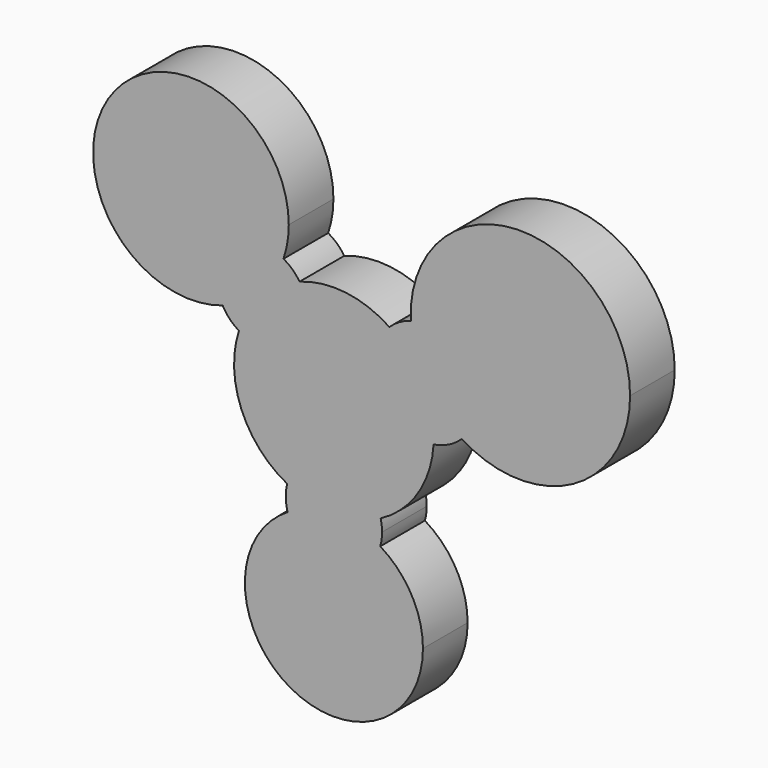
from build123d import *

# Parameters (mm, degrees)
F0_R     = 11.2833128168
F0_R_2   = 10.6488130987
F0_R_3   = 7.8884517035
F1_DEPTH = 12.192


with BuildPart() as f1:
    # F0 (on Front) → F1 (new body)
    with BuildSketch(Plane.XZ):
        with BuildLine():
            ThreePointArc((64.6868256307, 22.0171418041), (40.1449761113, 45.972446089), (16.7902312728, 20.8584086847))
            ThreePointArc((16.7902312728, 20.8584086847), (26.8358189915, 19.0661999212), (31.4093265462, 9.9443101218))
            ThreePointArc((31.4093265462, 9.9443101218), (30.5041655093, 5.4958673793), (27.9326293781, 1.754856652))
            ThreePointArc((27.9326293781, 1.7548566521), (52.2932061526, 1.0324381979), (64.6868256307, 22.0171418041))
        make_face()
        with Locations((40.7245121896, 22.0171418041)):
            Circle(F0_R, mode=Mode.SUBTRACT)
        with BuildLine():
            ThreePointArc((-24.308387046, 10.4348676669), (-22.6363387801, 22.0599619939), (-11.011095527, 23.7309745073))
            ThreePointArc((-11.011095527, 23.7309745073), (-10.1492949348, 27.1435552972), (-9.8594061629, 30.6513141841))
            ThreePointArc((-9.8594061629, 30.6513141841), (-48.6108677185, 43.0758640586), (-24.308387046, 10.4348676669))
        make_face()
        with Locations((-31.2269255519, 30.6513141841)):
            Circle(F0_R_2, mode=Mode.SUBTRACT)
        with BuildLine():
            ThreePointArc((10.1185107772, -24.6914563469), (0, -32.330583777), (-10.1185107772, -24.6914563469))
            ThreePointArc((-10.1185107772, -24.6914563469), (-9.5248492378, -58.2562348148), (19.4481945814, -41.3001291454))
            ThreePointArc((19.4481945814, -41.3001291454), (16.9561056694, -31.7752799076), (10.1185107772, -24.6914563469))
        make_face()
        with Locations((0, -41.3001291454)):
            Circle(F0_R_3, mode=Mode.SUBTRACT)
        with BuildLine():
            ThreePointArc((21.7706513012, -1.3047494562), (9.830025267, 4.8813588587), (12.1182372643, 18.1331727733))
            ThreePointArc((12.1182372643, 18.1331727733), (2.5912950244, 21.6552261433), (-7.4976775725, 20.4804409191))
            ThreePointArc((-7.4976775725, 20.4804409191), (-6.3141445246, 17.9210524787), (-5.9084352697, 15.1306009623))
            ThreePointArc((-5.9084352697, 15.1306009623), (-10.8782191013, 6.6041327124), (-20.7465769258, 6.7263047123))
            ThreePointArc((-20.7465769258, 6.7263047123), (-20.2128863485, -8.1916332123), (-10.2102536974, -19.2721132379))
            ThreePointArc((-10.2102536974, -19.2721132379), (0, -11.2888444275), (10.2102536974, -19.2721132379))
            ThreePointArc((10.2102536974, -19.2721132379), (18.3412407282, -11.8009541043), (21.7706513012, -1.3047494562))
        make_face()
        with Locations((40.7245121896, 22.0171418041)):
            Circle(F0_R)
        with Locations((-31.2269255519, 30.6513141841)):
            Circle(F0_R_2)
        with Locations((0, -41.3001291454)):
            Circle(F0_R_3)
        with BuildLine():
            ThreePointArc((31.4093265462, 9.9443101218), (26.8358189915, 19.0661999212), (16.7902312728, 20.8584086847))
            ThreePointArc((16.7902312728, 20.8584086847), (20.0257392642, 9.9443101218), (27.9326293781, 1.7548566521))
            ThreePointArc((27.9326293781, 1.754856652), (30.5041655093, 5.4958673793), (31.4093265462, 9.9443101218))
        make_face()
        with BuildLine():
            ThreePointArc((21.7706513012, -1.3047494562), (21.7999462146, -0.6526670372), (21.8097141022, 0))
            ThreePointArc((21.8097141022, 0), (19.2348501343, 10.2802806154), (12.1182372643, 18.1331727733))
            ThreePointArc((12.1182372643, 18.1331727733), (9.830025267, 4.8813588587), (21.7706513012, -1.3047494562))
        make_face()
        with BuildLine():
            ThreePointArc((-10.2102536974, -19.2721132379), (0, -21.8097141022), (10.2102536974, -19.2721132379))
            ThreePointArc((10.2102536974, -19.2721132379), (0, -11.2888444275), (-10.2102536974, -19.2721132379))
        make_face()
        with BuildLine():
            ThreePointArc((10.1185107772, -24.6914563469), (0, -21.851934564), (-10.1185107772, -24.6914563469))
            ThreePointArc((-10.1185107772, -24.6914563469), (0, -32.330583777), (10.1185107772, -24.6914563469))
        make_face()
        with BuildLine():
            ThreePointArc((-5.9084352697, 15.1306009623), (-6.3141445246, 17.9210524787), (-7.4976775725, 20.4804409191))
            ThreePointArc((-7.4976775725, 20.4804409191), (-15.7075950973, 15.1306009623), (-20.7465769258, 6.7263047123))
            ThreePointArc((-20.7465769258, 6.7263047123), (-10.8782191013, 6.6041327124), (-5.9084352697, 15.1306009623))
        make_face()
        with BuildLine():
            ThreePointArc((-24.308387046, 10.4348676669), (-16.1184807885, 15.5415232633), (-11.011095527, 23.7309745073))
            ThreePointArc((-11.011095527, 23.7309745073), (-22.6363387801, 22.0599619939), (-24.308387046, 10.4348676669))
        make_face()
        with BuildLine():
            ThreePointArc((12.1182372643, 18.1331727733), (19.2348501343, 10.2802806154), (21.8097141022, 0))
            ThreePointArc((21.8097141022, 0), (21.7999462146, -0.6526670372), (21.7706513012, -1.3047494562))
            ThreePointArc((21.7706513012, -1.3047494562), (25.0883096167, -0.2515930178), (27.9326293781, 1.754856652))
            ThreePointArc((27.9326293781, 1.7548566521), (20.0257392642, 9.9443101218), (16.7902312728, 20.8584086847))
            ThreePointArc((16.7902312728, 20.8584086847), (14.2900269624, 19.7772986702), (12.1182372643, 18.1331727733))
        make_face()
        with BuildLine():
            ThreePointArc((-20.7465769258, 6.7263047123), (-15.7075950973, 15.1306009623), (-7.4976775725, 20.4804409191))
            ThreePointArc((-7.4976775725, 20.4804409191), (-9.0528680022, 22.323523916), (-11.011095527, 23.7309745073))
            ThreePointArc((-11.011095527, 23.7309745073), (-16.1184807885, 15.5415232633), (-24.308387046, 10.4348676669))
            ThreePointArc((-24.308387046, 10.4348676669), (-22.7750710945, 8.3427945158), (-20.7465769258, 6.7263047123))
        make_face()
        with BuildLine():
            ThreePointArc((10.5208696747, -21.8097141022), (10.4429269654, -20.5314437443), (10.2102536974, -19.2721132379))
            ThreePointArc((10.2102536974, -19.2721132379), (0, -21.8097141022), (-10.2102536974, -19.2721132379))
            ThreePointArc((-10.2102536974, -19.2721132379), (-10.5193624426, -21.9877941777), (-10.1185107772, -24.6914563469))
            ThreePointArc((-10.1185107772, -24.6914563469), (0, -21.851934564), (10.1185107772, -24.6914563469))
            ThreePointArc((10.1185107772, -24.6914563469), (10.4197944294, -23.2645621224), (10.5208696747, -21.8097141022))
        make_face()
    extrude(amount=F1_DEPTH)


solid = f1.part
